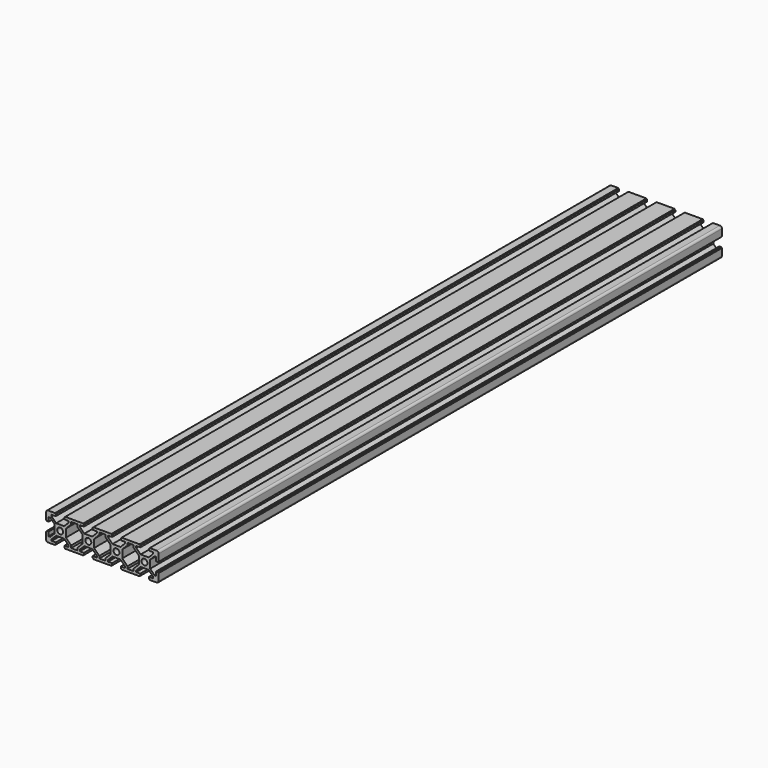
from build123d import *

# Parameters (mm, degrees)
SKETCH_R          = 2.1
PAD_DEPTH         = 250
FILLET_R          = 1.5
SKETCH001_R       = 0.5
POCKET_DEPTH      = 250.001
POCKET_DEPTH_BACK = -250.001


with BuildPart() as part:
    # Sketch → Pad (new body, symmetric)
    with BuildSketch(Plane.XZ):
        Polygon((-10, 10), (-3.1, 10), (-3.1, 8.2), (-6, 8.2), (-6, 7.06066), (-2.83934, 3.9), (2.83934, 3.9), (6, 7.06066), (6, 8.2), (3.1, 8.2), (3.1, 10), (16.9, 10), (16.9, 8.2), (14, 8.2), (14, 7.06066), (17.16066, 3.9), (22.83934, 3.9), (26, 7.06066), (26, 8.2), (23.1, 8.2), (23.1, 10), (36.9, 10), (36.9, 8.2), (34, 8.2), (34, 7.06066), (37.16066, 3.9), (42.83934, 3.9), (46, 7.06066), (46, 8.2), (43.1, 8.2), (43.1, 10), (56.9, 10), (56.9, 8.2), (54, 8.2), (54, 7.06066), (57.16066, 3.9), (62.83934, 3.9), (66, 7.06066), (66, 8.2), (63.1, 8.2), (63.1, 10), (70, 10), (70, 3.1), (68.2, 3.1), (68.2, 6), (67.06066, 6), (63.9, 2.83934), (63.9, -2.83934), (67.06066, -6), (68.2, -6), (68.2, -3.1), (70, -3.1), (70, -10), (63.1, -10), (63.1, -8.2), (66, -8.2), (66, -7.06066), (62.83934, -3.9), (57.16066, -3.9), (54, -7.06066), (54, -8.2), (56.9, -8.2), (56.9, -10), (43.1, -10), (43.1, -8.2), (46, -8.2), (46, -7.06066), (42.83934, -3.9), (37.16066, -3.9), (34, -7.06066), (34, -8.2), (36.9, -8.2), (36.9, -10), (23.1, -10), (23.1, -8.2), (26, -8.2), (26, -7.06066), (22.83934, -3.9), (17.16066, -3.9), (14, -7.06066), (14, -8.2), (16.9, -8.2), (16.9, -10), (3.1, -10), (3.1, -8.2), (6, -8.2), (6, -7.06066), (2.83934, -3.9), (-2.83934, -3.9), (-6, -7.06066), (-6, -8.2), (-3.1, -8.2), (-3.1, -10), (-10, -10), (-10, -3.1), (-8.2, -3.1), (-8.2, -6), (-7.06066, -6), (-3.9, -2.83934), (-3.9, 2.83934), (-7.06066, 6), (-8.2, 6), (-8.2, 3.1), (-10, 3.1), align=None)
        Circle(SKETCH_R, mode=Mode.SUBTRACT)
        with Locations((20, 0)):
            Circle(SKETCH_R, mode=Mode.SUBTRACT)
        with Locations((40, 0)):
            Circle(SKETCH_R, mode=Mode.SUBTRACT)
        with Locations((59.9, 0)):
            Circle(SKETCH_R, mode=Mode.SUBTRACT)
        Polygon((7.8, -6.53934), (4.1, -2.83934), (4.1, 2.83934), (7.8, 6.53934), (7.8, 8.2), (12.2, 8.2), (12.2, 6.53934), (15.9, 2.83934), (15.9, -2.83934), (12.2, -6.53934), (12.2, -8.2), (7.8, -8.2), align=None, mode=Mode.SUBTRACT)
        Polygon((27.8, 8.2), (27.8, 6.53934), (24.1, 2.83934), (24.1, -2.83934), (27.8, -6.53934), (27.8, -8.2), (32.2, -8.2), (32.2, -6.53934), (35.9, -2.83934), (35.9, 2.83934), (32.2, 6.53934), (32.2, 8.2), align=None, mode=Mode.SUBTRACT)
        Polygon((47.8, 8.2), (47.8, 6.53934), (44.1, 2.83934), (44.1, -2.83934), (47.8, -6.53934), (47.8, -8.2), (52.2, -8.2), (52.2, -6.53934), (55.9, -2.83934), (55.9, 2.83934), (52.2, 6.53934), (52.2, 8.2), align=None, mode=Mode.SUBTRACT)
    extrude(amount=PAD_DEPTH, both=True)

    # Fillet
    fillet_edges = [part.edges().sort_by_distance(p)[0] for p in [
        (-10, 0, 10),
        (-10, 0, -10),
        (70, 0, -10),
        (70, 0, 10),
    ]]
    fillet(fillet_edges, radius=FILLET_R)

    # Sketch001 → Pocket (cut, two sides)
    with BuildSketch(Plane.XZ) as pocket_sk:
        with Locations((63.1, 10)):
            Circle(SKETCH001_R)
        with Locations((56.9, 10)):
            Circle(SKETCH001_R)
        with Locations((70, 3.1)):
            Circle(SKETCH001_R)
        with Locations((70, -3.1)):
            Circle(SKETCH001_R)
        with Locations((63.1, -10)):
            Circle(SKETCH001_R)
        with Locations((56.9, -10)):
            Circle(SKETCH001_R)
        with Locations((43.1, -10)):
            Circle(SKETCH001_R)
        with Locations((36.9, -10)):
            Circle(SKETCH001_R)
        with Locations((23.1, -10)):
            Circle(SKETCH001_R)
        with Locations((16.9, -10)):
            Circle(SKETCH001_R)
        with Locations((43.1, 10)):
            Circle(SKETCH001_R)
        with Locations((36.9, 10)):
            Circle(SKETCH001_R)
        with Locations((23.1, 10)):
            Circle(SKETCH001_R)
        with Locations((16.9, 10)):
            Circle(SKETCH001_R)
        with Locations((3.1, 10)):
            Circle(SKETCH001_R)
        with Locations((-3.1, 10)):
            Circle(SKETCH001_R)
        with Locations((-10, 3.1)):
            Circle(SKETCH001_R)
        with Locations((-10, -3.1)):
            Circle(SKETCH001_R)
        with Locations((-3.1, -10)):
            Circle(SKETCH001_R)
        with Locations((3.1, -10)):
            Circle(SKETCH001_R)
    extrude(amount=-POCKET_DEPTH, mode=Mode.SUBTRACT)
    extrude(pocket_sk.sketch, amount=-POCKET_DEPTH_BACK, mode=Mode.SUBTRACT)


with BuildPart() as part_1:
    # Body placement: moved
    add(part.part.moved(Location((-30, 0, 0))))


solid = part_1.part
